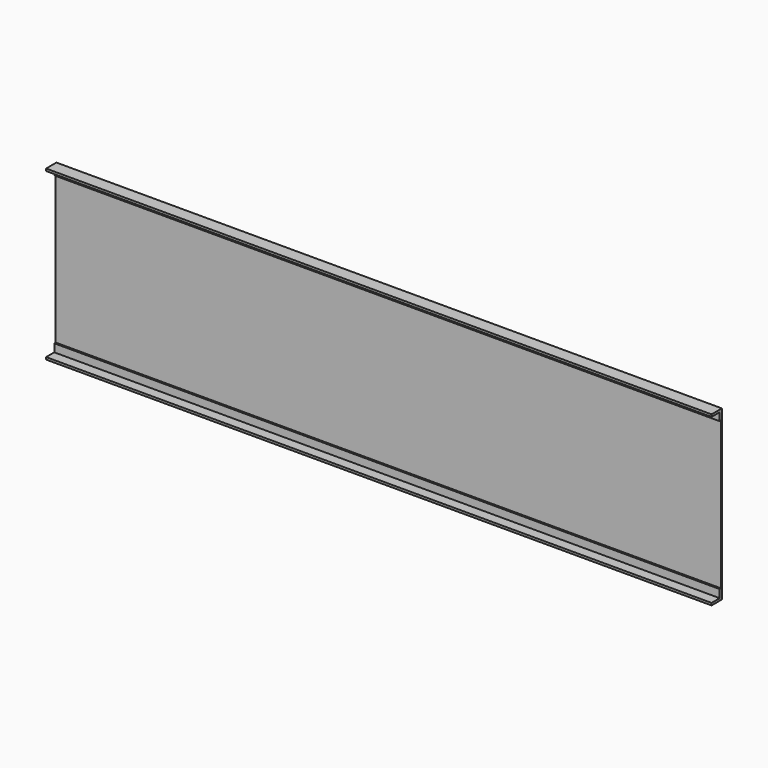
from build123d import *

# Parameters (mm, degrees)
F0_W     = 1954
F0_H     = 494
F1_DEPTH = 3
F2_W     = 1954
F2_H     = 30
F3_DEPTH = 5
F4_W     = 1954
F4_H     = 6.620756
F5_DEPTH = 30


with BuildPart() as f1:
    # F0 (on Front) → F1 (new body)
    with BuildSketch(Plane.XZ):
        Rectangle(F0_W, F0_H)
    extrude(amount=F1_DEPTH)

    # F2 (on face) → F3 (join)
    with BuildSketch(Plane.XZ.offset(3)):
        with Locations((0, 232)):
            Rectangle(F2_W, F2_H)
        with Locations((0, -232)):
            Rectangle(F2_W, F2_H)
    extrude(amount=F3_DEPTH)

    # F4 (on face) → F5 (join)
    with BuildSketch(Plane.XZ.offset(8)):
        with Locations((0, 243.689622)):
            Rectangle(F4_W, F4_H)
        with Locations((0, -243.689622)):
            Rectangle(F4_W, F4_H)
    extrude(amount=F5_DEPTH)


solid = f1.part
